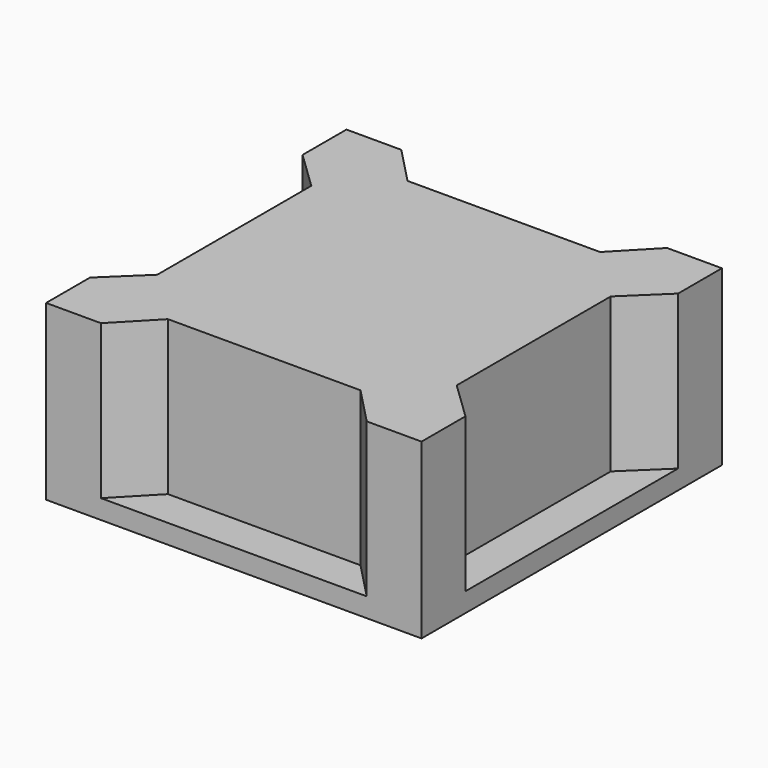
from build123d import *

# Parameters (mm, degrees)
F0_W     = 975
F0_H     = 975
F0_W_2   = 600
F0_H_2   = 600
F1_DEPTH = 450
F3_DEPTH = 400


with BuildPart() as f1:
    # F0 (on Top) → F1 (new body)
    with BuildSketch(Plane.XY):
        Rectangle(F0_W, F0_H)
        Rectangle(F0_W_2, F0_H_2, mode=Mode.SUBTRACT)
        Rectangle(F0_W_2, F0_H_2)
    extrude(amount=F1_DEPTH)

    # F2 (on face) → F3 (cut)
    with BuildSketch(Plane.XY.offset(450)):
        Polygon((-388.788299, 250), (-487.5, 345), (-487.5, -345), (-388.788299, -250), align=None)
        Polygon((345, 487.5), (-345, 487.5), (-250, 388.788299), (250, 388.788299), align=None)
        Polygon((487.5, -345), (487.5, 345), (388.788299, 250), (388.788299, -250), align=None)
        Polygon((-250, -388.788299), (-345, -487.5), (345, -487.5), (250, -388.788299), align=None)
    extrude(amount=-F3_DEPTH, mode=Mode.SUBTRACT)


solid = f1.part
